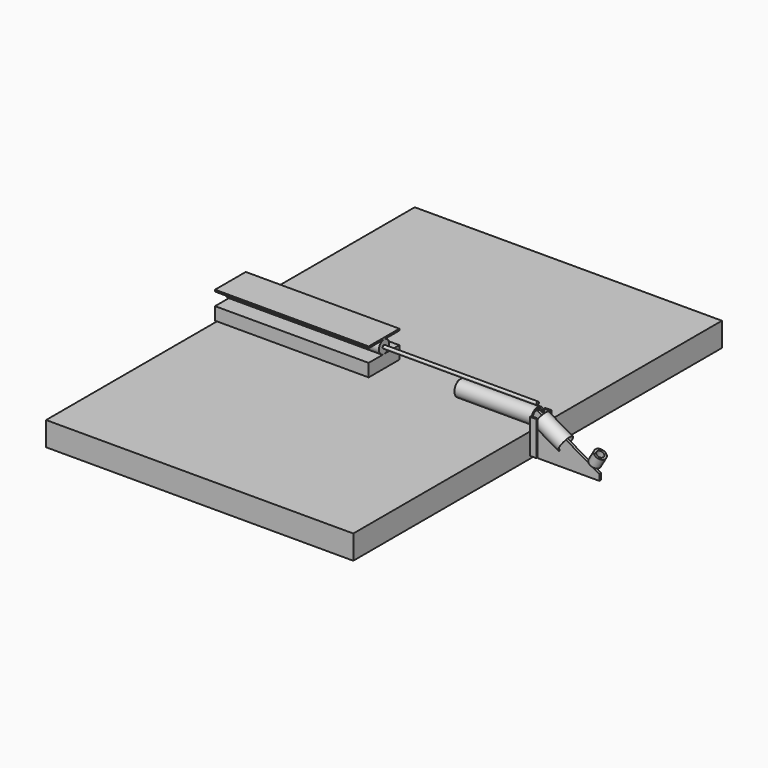
from build123d import *

# Parameters (mm, degrees)
F0_W      = 304.8
F0_H      = 6.35
F0_W_2    = 609.6
F0_H_2    = 6.77982057
F0_H_3    = 50.8
F6_DEPTH  = 76.2
F0_W_3    = 1219.2
F0_H_4    = 95.25
F7_DEPTH  = 914.4
F9_DEPTH  = 25.4
F0_H_5    = 25.4
F10_DEPTH = 9.525


with BuildPart() as f1:
    # F0 (on Front) → F1 (revolve)
    with BuildSketch(Plane.XZ):
        Polygon((655.7809343297, 103.469426218), (653.179416568, 98.963465278), (733.3630443075, 52.669426218), (753.4515406549, 52.669426218), (665.4633596304, 103.469426218), align=None)
        Polygon((658.2015406549, 107.6620393584), (655.7809343297, 103.469426218), (665.4633596304, 103.469426218), align=None)
    revolve(axis=Axis((730.3147216794, 0, 29.3657327882), (0.8660254038, 0, -0.5)))


with BuildPart() as f2:
    # F0 (on Front) → F2 (revolve)
    with BuildSketch(Plane.XZ):
        with Locations((474.0515406549, 112.994426218)):
            Rectangle(F0_W, F0_H)
    revolve(axis=Axis((474.0515406549, 0, 84.419426218), (1, 0, 0)))


with BuildPart() as f3:
    # F0 (on Front) → F3 (revolve)
    with BuildSketch(Plane.XZ):
        Polygon((855.8485904794, 43.5967716205), (834.1779027039, 6.0620393584), (841.257744138, 1.9474267538), (862.9401510761, 39.502457201), align=None)
    revolve(axis=Axis((864.2175841779, 0, 13.7052027119), (0.5024767675, 0, 0.8645907113)))


with BuildPart() as f4:
    # F0 (on Front) → F4 (revolve)
    with BuildSketch(Plane.XZ):
        Polygon((-592.7484593451, 154.269426218), (-592.7484593451, 128.869426218), (16.8515406549, 128.869426218), (16.8515406549, 135.219426218), (16.8515406549, 154.269426218), align=None)
    revolve(axis=Axis((-287.9484593451, 0, 128.869426218), (-1, 0, 0)))

    # F0 (on Front) → F5 (revolve)
    with BuildSketch(Plane.XZ):
        Polygon((16.8515406549, 135.219426218), (16.8515406549, 128.869426218), (626.4515406549, 128.869426218), (626.4515406549, 135.219426218), (554.7779027039, 135.219426218), align=None)
    revolve(axis=Axis((321.6515406549, 0, 128.869426218), (-1, 0, 0)))

    # F0 (on Front) → F6 (join, symmetric)
    with BuildSketch(Plane.XZ):
        with Locations((-287.9484593451, 157.659336503)):
            Rectangle(F0_W_2, F0_H_2)
        with Locations((-287.9484593451, 78.069426218)):
            Rectangle(F0_W_2, F0_H_3)
    extrude(amount=F6_DEPTH, both=True)


with BuildPart() as f7:
    # F0 (on Front) → F7 (new body, symmetric)
    with BuildSketch(Plane.XZ):
        with Locations((16.8515406549, -1.305573782)):
            Rectangle(F0_W_3, F0_H_4)
    extrude(amount=F7_DEPTH, both=True)


with BuildPart() as f9:
    # F8 (on face) → F9 (new body)
    with BuildSketch(Plane.YZ.offset(626.4515406549)):
        Polygon((-31.75, -38.38833794), (-31.75, 84.419426218), (-31.75, 97.9532301426), (-38.1, 97.9532301426), (-38.1, -38.38833794), align=None)
    extrude(amount=F9_DEPTH)


with BuildPart() as f9b:
    # F8 (on face) → F9, piece 2 (new body)
    with BuildSketch(Plane.YZ.offset(626.4515406549)):
        Polygon((38.1, 97.9532301426), (31.75, 97.9532301426), (31.75, 84.419426218), (31.75, -14.3260782923), (31.75, -38.38833794), (38.1, -38.38833794), align=None)
    extrude(amount=F9_DEPTH)


with BuildPart() as f10:
    # F0 (on Front) → F10 (new body)
    with BuildSketch(Plane.XZ):
        with Locations((474.0515406549, 97.119426218)):
            Rectangle(F0_W, F0_H_5)
        Polygon((315.3015375137, 52.669426218), (321.6515406549, 52.669426218), (321.6515406549, 84.419426218), (321.6515406549, 109.819426218), (315.3015375137, 109.819426218), align=None)
        Polygon((365.3527498245, 52.669426218), (626.4515406549, 52.669426218), (626.4515406549, 84.419426218), (321.6515406549, 84.419426218), (321.6515406549, 52.669426218), align=None)
        Polygon((626.4515406549, 84.419426218), (626.4515406549, 52.669426218), (634.3763406549, 66.3955824579), (634.3763406549, 109.819426218), (626.4515406549, 109.819426218), align=None)
        Polygon((634.3763406549, 109.819426218), (634.3763406549, 66.3955824579), (642.3265406549, 80.1657327882), (653.179416568, 98.963465278), align=None)
        Polygon((653.179416568, 98.963465278), (642.3265406549, 80.1657327882), (689.9515406549, 52.669426218), (733.3630443075, 52.669426218), align=None)
        Polygon((642.3265406549, 80.1657327882), (634.3763406549, 66.3955824579), (634.3763406549, 52.669426218), (689.9515406549, 52.669426218), align=None)
        Polygon((634.3763406549, 66.3955824579), (626.4515406549, 52.669426218), (634.3763406549, 52.669426218), align=None)
        Polygon((802.4279027039, -48.930573782), (634.3763406549, 48.0940408048), (634.3763406549, -55.7142719626), (807.9667468622, -55.7142719626), (836.2473392138, -6.7308491415), (829.155778617, -2.636534722), (818.3029027039, -21.4342672118), align=None)
        Polygon((634.3763406549, 52.669426218), (634.3763406549, 48.0940408048), (802.4279027039, -48.930573782), (818.3029027039, -21.4342672118), (689.9515406549, 52.669426218), align=None)
        Polygon((733.3630443075, 52.669426218), (689.9515406549, 52.669426218), (818.3029027039, -21.4342672118), (829.155778617, -2.636534722), align=None)
        Polygon((836.2473392138, -6.7308491415), (807.9667468622, -55.7142719626), (824.2119550705, -55.7142719626), (854.6004848789, -55.7142719626), (871.1648442681, -27.0239599059), (848.3022022869, -13.73680994), align=None)
        Polygon((871.1648442681, -27.0239599059), (854.6004848789, -55.7142719626), (878.8170780003, -55.7142719626), (878.8170780003, -31.4712314529), align=None)
    extrude(amount=F10_DEPTH)


solid = Compound([f1.part, f2.part, f3.part, f4.part, f7.part, f9.part, f9b.part, f10.part])
